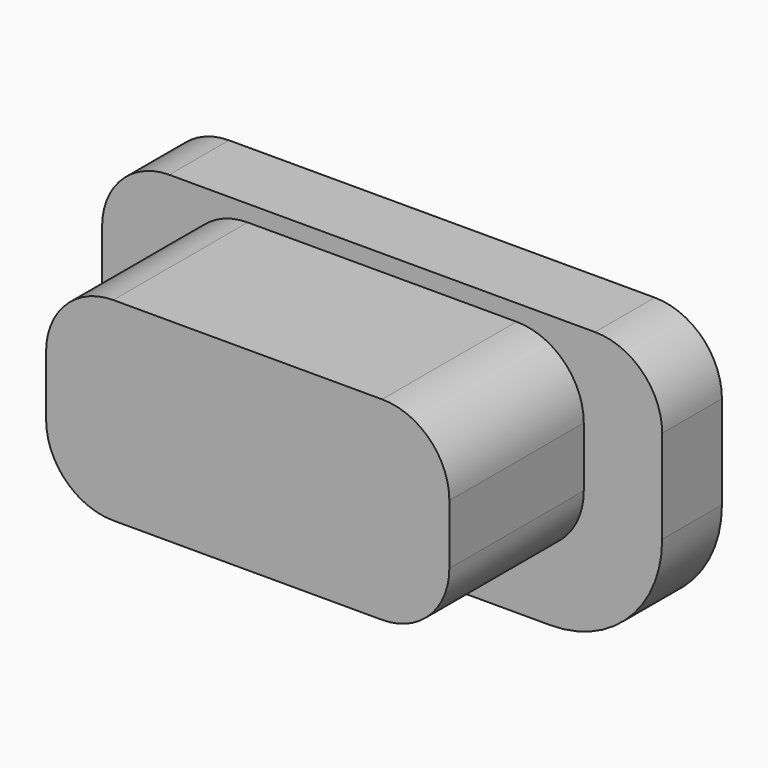
from build123d import *

# Parameters (mm, degrees)
EXTRUDE015_DEPTH = 1
EXTRUDE014_DEPTH = 2.75


with BuildPart() as extrude015:
    # Sketch015 → Extrude015 (new body)
    with BuildSketch(Plane.XZ):
        with BuildLine():
            ThreePointArc((11.7, 16.35), (11.063604, 16.086396), (10.8, 15.45))
            Line((10.8, 14.2), (10.8, 15.45))
            ThreePointArc((10.8, 14.2), (11.23934, 13.13934), (12.3, 12.7))
            Line((16.8, 12.7), (12.3, 12.7))
            ThreePointArc((16.8, 12.7), (17.86066, 13.13934), (18.3, 14.2))
            Line((18.3, 15.45), (18.3, 14.2))
            ThreePointArc((18.3, 15.45), (18.036396, 16.086396), (17.4, 16.35))
            Line((11.7, 16.35), (17.4, 16.35))
        make_face()
    extrude(amount=EXTRUDE015_DEPTH)


with BuildPart() as extrude015_1:
    # Extrude015 placement: moved
    add(extrude015.part.moved(Location((0, 2.5, 0))))


with BuildPart() as button1:
    # Sketch014 → Extrude014 (new body)
    with BuildSketch(Plane.XZ):
        with BuildLine():
            ThreePointArc((12.75, 16.13), (12.113604, 15.866396), (11.85, 15.23))
            Line((11.85, 14.43), (11.85, 15.23))
            ThreePointArc((11.85, 14.43), (12.113604, 13.793604), (12.75, 13.53))
            Line((16.35, 13.53), (12.75, 13.53))
            ThreePointArc((16.35, 13.53), (16.986396, 13.793604), (17.25, 14.43))
            Line((17.25, 15.23), (17.25, 14.43))
            ThreePointArc((17.25, 15.23), (16.986396, 15.866396), (16.35, 16.13))
            Line((12.75, 16.13), (16.35, 16.13))
        make_face()
    extrude(amount=EXTRUDE014_DEPTH)


with BuildPart() as button1_1:
    # Extrude014 placement: moved
    add(button1.part.moved(Location((0, 2, 0))))

    # Fusion018: union Extrude015
    add(extrude015_1.part)


solid = button1_1.part
